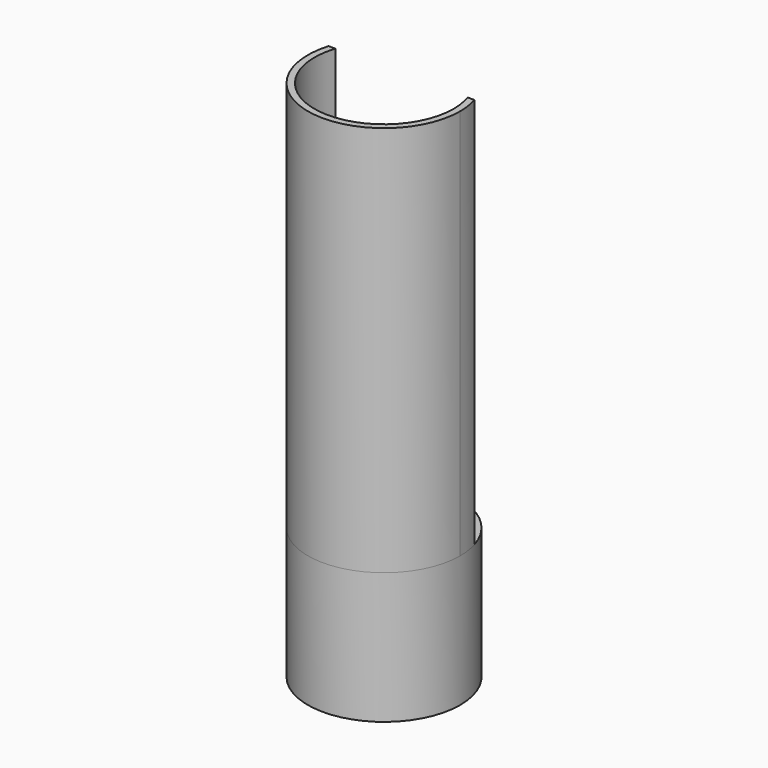
from build123d import *

# Parameters (mm, degrees)
F0_R     = 29
F0_R_2   = 26.5
F1_DEPTH = 50
F3_DEPTH = 149


with BuildPart() as f1:
    # F0 (on Top) → F1 (new body)
    with BuildSketch(Plane.XY):
        Circle(F0_R)
        Circle(F0_R_2, mode=Mode.SUBTRACT)
    extrude(amount=F1_DEPTH)

    # F2 (on face) → F3 (join)
    with BuildSketch(Plane.XY.offset(50)):
        with BuildLine():
            ThreePointArc((25.157987, 8.326204), (26.162346, 4.216831), (26.5, 0))
            ThreePointArc((26.5, 0), (-4.216831, -26.162346), (-25.157987, 8.326204))
            Line((-25.157987, 8.326204), (-27.779027, 8.326204))
            ThreePointArc((-27.779027, 8.326204), (-4.207625, -28.693133), (29, 0))
            ThreePointArc((29, 0), (28.693133, 4.207625), (27.779027, 8.326204))
            Line((27.779027, 8.326204), (25.157987, 8.326204))
        make_face()
    extrude(amount=F3_DEPTH)


solid = f1.part
